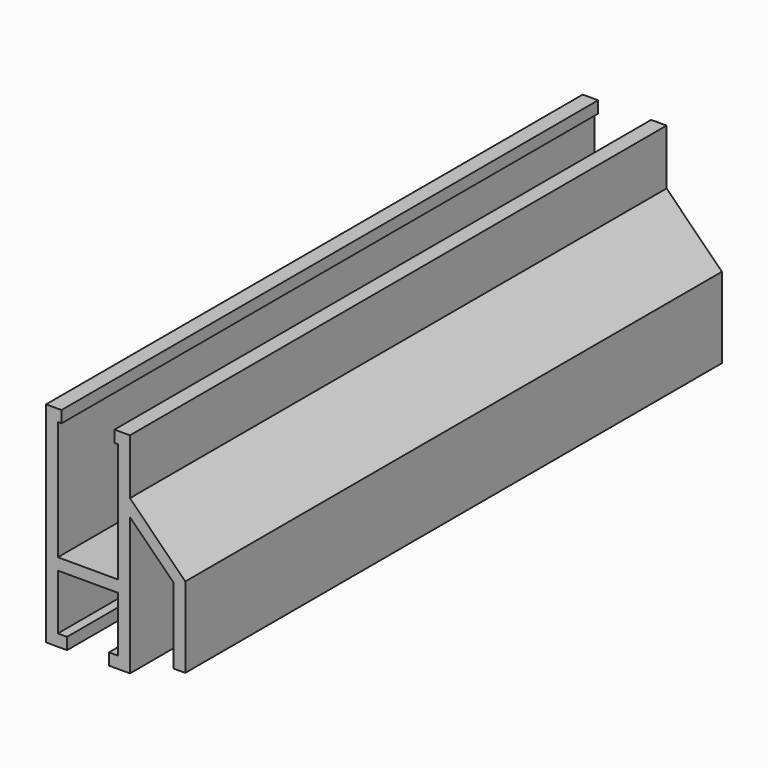
from build123d import *

# Parameters (mm, degrees)
F1_DEPTH = 101.6


with BuildPart() as f1:
    # F0 (on Front) → F1 (new body)
    with BuildSketch(Plane.XZ):
        Polygon((-4.0132, 29.972), (-4.0132, 31.75), (-6.35, 31.75), (-6.35, 0), (-3.175, 0), (-3.175, 1.778), (-4.572, 1.778), (-4.572, 10.16), (4.572, 10.16), (4.572, 1.778), (3.175, 1.778), (3.175, 0), (6.35, 0), (6.35, 20.853528), (12.954, 14.249528), (12.954, 2.794), (14.732, 2.794), (14.732, 14.986), (6.35, 23.368), (6.35, 31.75), (4.0132, 31.75), (4.0132, 29.972), (4.572, 29.972), (4.572, 11.938), (-4.572, 11.938), (-4.572, 29.972), align=None)
    extrude(amount=F1_DEPTH)


solid = f1.part
